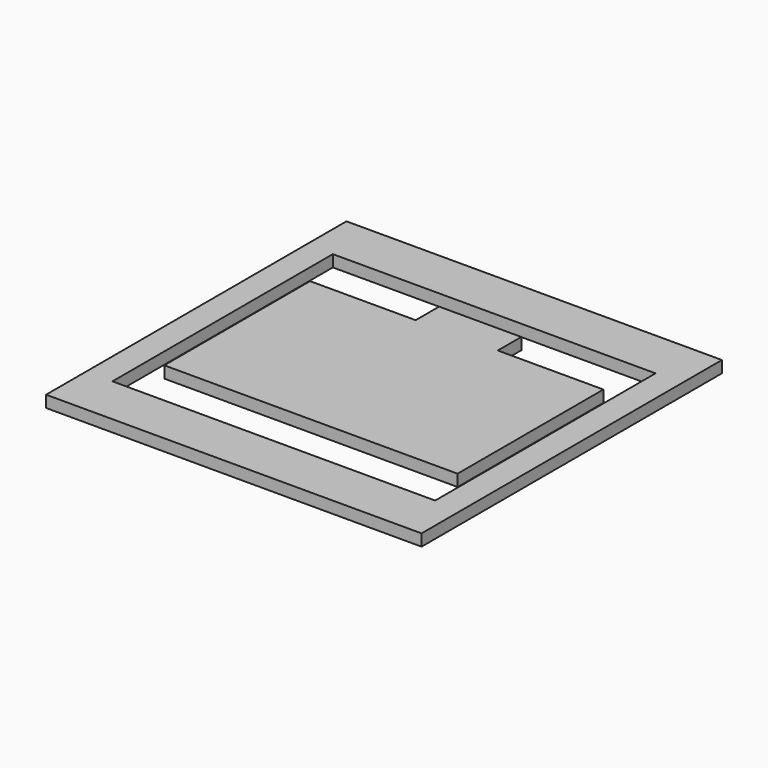
from build123d import *

# Parameters (mm, degrees)
F1_DEPTH = 1
F0_W     = 32
F0_H     = 32
F0_W_2   = 27.503256
F0_H_2   = 23.47956
F2_DEPTH = 1
F0_W_3   = 1.5
F0_H_3   = 11.533698
F3_DEPTH = 1


with BuildPart() as f1:
    # F0 (on Top) → F1 (new body)
    with BuildSketch(Plane.XY):
        Polygon((9.75, -7.766849), (12.5, -7.766849), (12.5, 3.766849), (12.5, 7.766849), (3.5, 7.766849), (3.5, 10.266849), (-3.5, 10.266849), (-3.5, 7.766849), (-12.5, 7.766849), (-12.5, 3.766849), (-12.5, -7.766849), (-9.75, -7.766849), (-8.25, -7.766849), (-7.75, -7.766849), (-7.75, 3.766849), (-6.25, 3.766849), (-6.25, -7.766849), (-5.75, -7.766849), (-5.75, 3.766849), (-4.25, 3.766849), (-4.25, -7.766849), (-3.75, -7.766849), (-3.75, 3.766849), (-2.25, 3.766849), (-2.25, -7.766849), (-1.75, -7.766849), (-1.75, 3.766849), (-0.25, 3.766849), (-0.25, -7.766849), (0.25, -7.766849), (0.25, 3.766849), (1.75, 3.766849), (1.75, -7.766849), (2.25, -7.766849), (2.25, 3.766849), (3.75, 3.766849), (3.75, -7.766849), (4.25, -7.766849), (4.25, 3.766849), (5.75, 3.766849), (5.75, -7.766849), (6.25, -7.766849), (6.25, 3.766849), (7.75, 3.766849), (7.75, -7.766849), (8.25, -7.766849), align=None)
    extrude(amount=F1_DEPTH)


with BuildPart() as f2:
    # F0 (on Top) → F2 (new body)
    with BuildSketch(Plane.XY):
        with Locations((0.00265, 0.01533)):
            Rectangle(F0_W, F0_H)
        with Locations((0.00265, 0.01533)):
            Rectangle(F0_W_2, F0_H_2, mode=Mode.SUBTRACT)
    extrude(amount=F2_DEPTH)


with BuildPart() as f3:
    # F0 (on Top) → F3 (new body)
    with BuildSketch(Plane.XY):
        Polygon((9.75, -7.766849), (12.5, -7.766849), (12.5, 3.766849), (12.5, 7.766849), (3.5, 7.766849), (3.5, 10.266849), (-3.5, 10.266849), (-3.5, 7.766849), (-12.5, 7.766849), (-12.5, 3.766849), (-12.5, -7.766849), (-9.75, -7.766849), (-8.25, -7.766849), (-7.75, -7.766849), (-7.75, 3.766849), (-6.25, 3.766849), (-6.25, -7.766849), (-5.75, -7.766849), (-5.75, 3.766849), (-4.25, 3.766849), (-4.25, -7.766849), (-3.75, -7.766849), (-3.75, 3.766849), (-2.25, 3.766849), (-2.25, -7.766849), (-1.75, -7.766849), (-1.75, 3.766849), (-0.25, 3.766849), (-0.25, -7.766849), (0.25, -7.766849), (0.25, 3.766849), (1.75, 3.766849), (1.75, -7.766849), (2.25, -7.766849), (2.25, 3.766849), (3.75, 3.766849), (3.75, -7.766849), (4.25, -7.766849), (4.25, 3.766849), (5.75, 3.766849), (5.75, -7.766849), (6.25, -7.766849), (6.25, 3.766849), (7.75, 3.766849), (7.75, -7.766849), (8.25, -7.766849), align=None)
        with Locations((-7, -2)):
            Rectangle(F0_W_3, F0_H_3)
        with Locations((-5, -2)):
            Rectangle(F0_W_3, F0_H_3)
        with Locations((-3, -2)):
            Rectangle(F0_W_3, F0_H_3)
        with Locations((-1, -2)):
            Rectangle(F0_W_3, F0_H_3)
        with Locations((1, -2)):
            Rectangle(F0_W_3, F0_H_3)
        with Locations((3, -2)):
            Rectangle(F0_W_3, F0_H_3)
        with Locations((5, -2)):
            Rectangle(F0_W_3, F0_H_3)
        with Locations((7, -2)):
            Rectangle(F0_W_3, F0_H_3)
        Polygon((9.75, -7.766849), (12.5, -7.766849), (12.5, 3.766849), (12.5, 7.766849), (3.5, 7.766849), (3.5, 10.266849), (-3.5, 10.266849), (-3.5, 7.766849), (-12.5, 7.766849), (-12.5, 3.766849), (-12.5, -7.766849), (-9.75, -7.766849), (-8.25, -7.766849), (-7.75, -7.766849), (-7.75, 3.766849), (-6.25, 3.766849), (-6.25, -7.766849), (-5.75, -7.766849), (-5.75, 3.766849), (-4.25, 3.766849), (-4.25, -7.766849), (-3.75, -7.766849), (-3.75, 3.766849), (-2.25, 3.766849), (-2.25, -7.766849), (-1.75, -7.766849), (-1.75, 3.766849), (-0.25, 3.766849), (-0.25, -7.766849), (0.25, -7.766849), (0.25, 3.766849), (1.75, 3.766849), (1.75, -7.766849), (2.25, -7.766849), (2.25, 3.766849), (3.75, 3.766849), (3.75, -7.766849), (4.25, -7.766849), (4.25, 3.766849), (5.75, 3.766849), (5.75, -7.766849), (6.25, -7.766849), (6.25, 3.766849), (7.75, 3.766849), (7.75, -7.766849), (8.25, -7.766849), align=None)
    extrude(amount=F3_DEPTH)


solid = Compound([f1.part, f2.part, f3.part])
